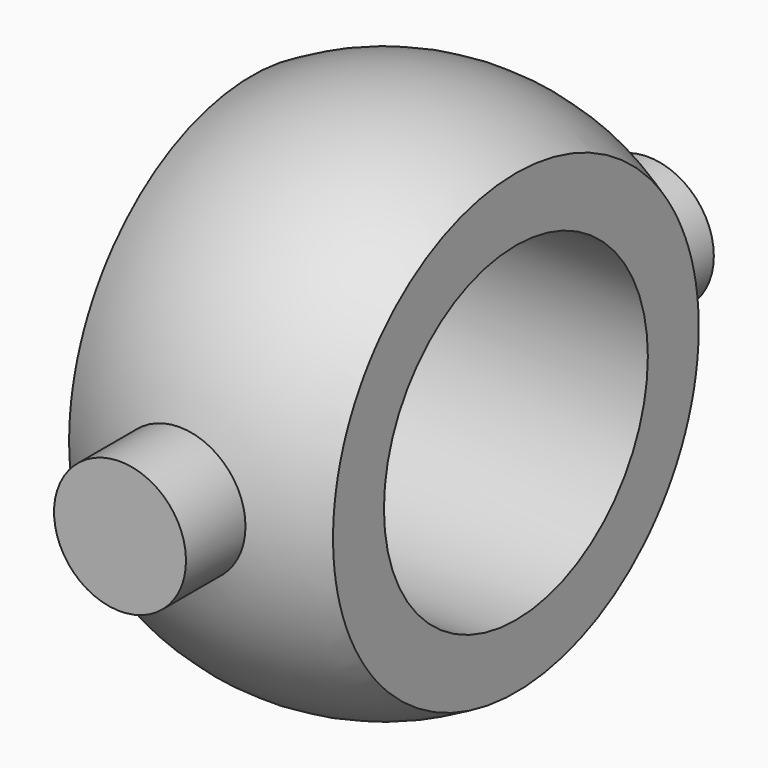
from build123d import *

# Parameters (mm, degrees)
F0_W = 80
F0_H = 30
F5_R = 20


with BuildPart() as f1:
    # F0 (on Front) → F1 (revolve)
    with BuildSketch(Plane.XZ):
        with Locations((0, 65)):
            Rectangle(F0_W, F0_H)
    revolve(axis=Axis((-190.0887642899, 0, 0), (-1, 0, 0)))

    # F2 (on Top) → F3 (revolve, cut)
    with BuildSketch(Plane.XY):
        with BuildLine():
            ThreePointArc((0, -80), (-80, 0), (0, 80))
            Line((0, 80), (0, 110))
            Line((0, 110), (-110, 110))
            Line((-110, 110), (-110, -110))
            Line((-110, -110), (0, -110))
            Line((0, -110), (0, -80))
        make_face()
    revolve(axis=Axis((0, 23.6749413657, 0), (0, 1, 0)), mode=Mode.SUBTRACT)

    # F5 (on offset) → F6 (join, up to the next surface of F1)
    with BuildSketch(Plane.XZ.offset(100)):
        Circle(F5_R)
    extrude(until=Until.NEXT, dir=(0, 1, 0))

    # F7: F1 across plane


with BuildPart() as f1_1:
    add(f1.part)
    add(f1.part.mirror(Plane.XZ))


solid = f1_1.part
